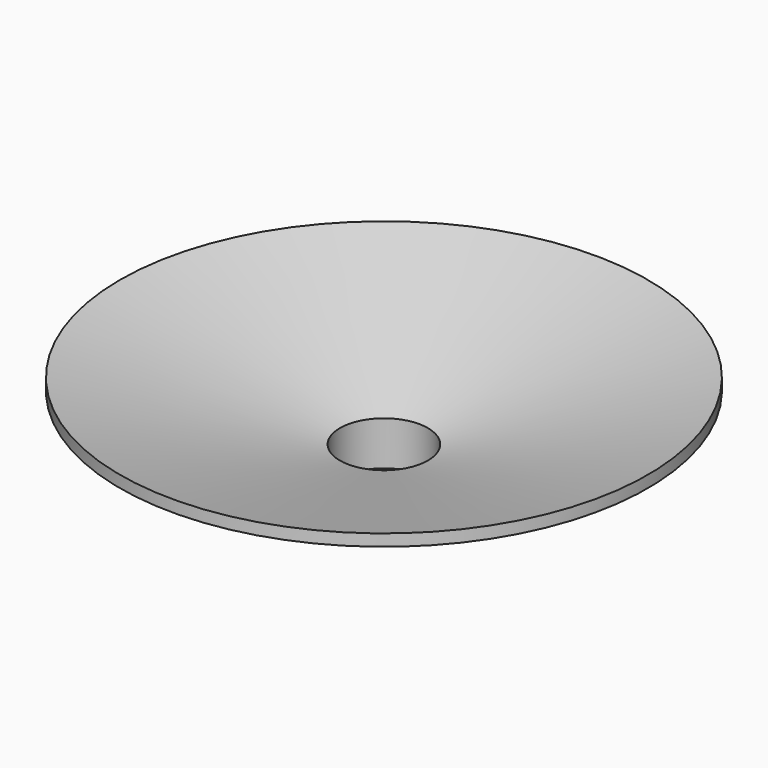
from build123d import *

# Parameters (mm, degrees)
F0_R     = 10
F0_R_2   = 5
F1_DEPTH = 5


with BuildPart() as f1:
    # F0 (on Top) → F1 (new body)
    with BuildSketch(Plane.XY):
        Circle(F0_R)
        Circle(F0_R_2, mode=Mode.SUBTRACT)
    extrude(amount=-F1_DEPTH)

    # F2 (on Front) → F4 (revolve)
    with BuildSketch(Plane.XZ):
        Polygon((-30, 5.358984), (-10, 0), (-5, 0), (-30, 6.69873), align=None)
    revolve(axis=Axis((0, 0, -11.40601), (0, 0, -1)))


solid = f1.part
